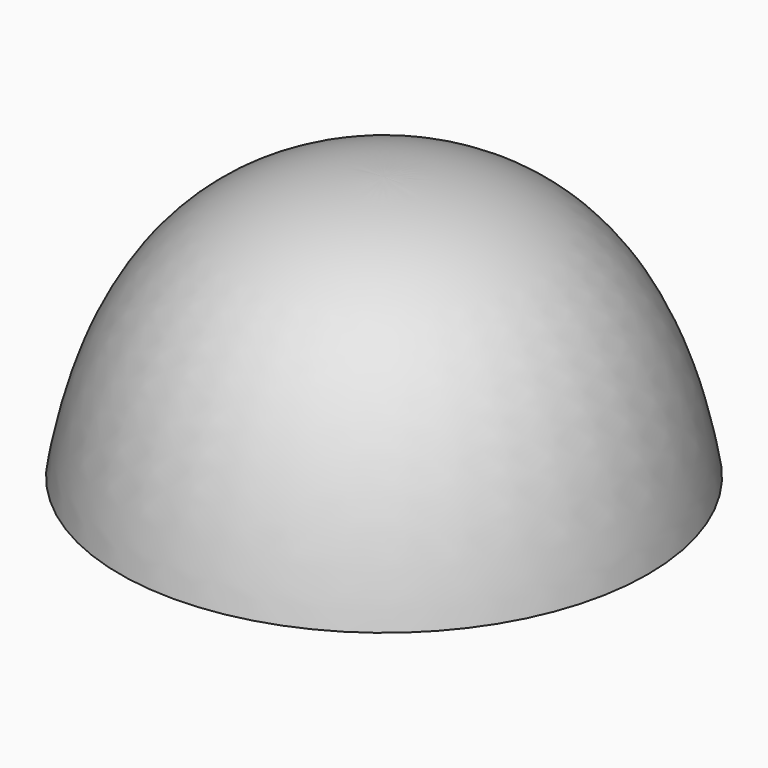
from build123d import *

# Parameters (mm, degrees)
SKETCH001_R = 10
PAD_DEPTH   = 10


with BuildPart() as part:
    # Sketch → Revolution (revolve)
    with BuildSketch(Plane.XZ):
        with BuildLine():
            add(Edge.make_bspline(
                [(0, 30), (-25, 30), (-30, 0)],
                knots=[0, 0, 0, 1, 1, 1], degree=2))
            Line((-30, 0), (0, 0))
            Line((0, 0), (0, 30))
        make_face()
    revolve(axis=Axis((0, 0, 0), (0, 0, 1)))

    # Sketch001 → Pad (new body)
    with BuildSketch(Plane.XY):
        Circle(SKETCH001_R)
    extrude(amount=-PAD_DEPTH)


solid = part.part
